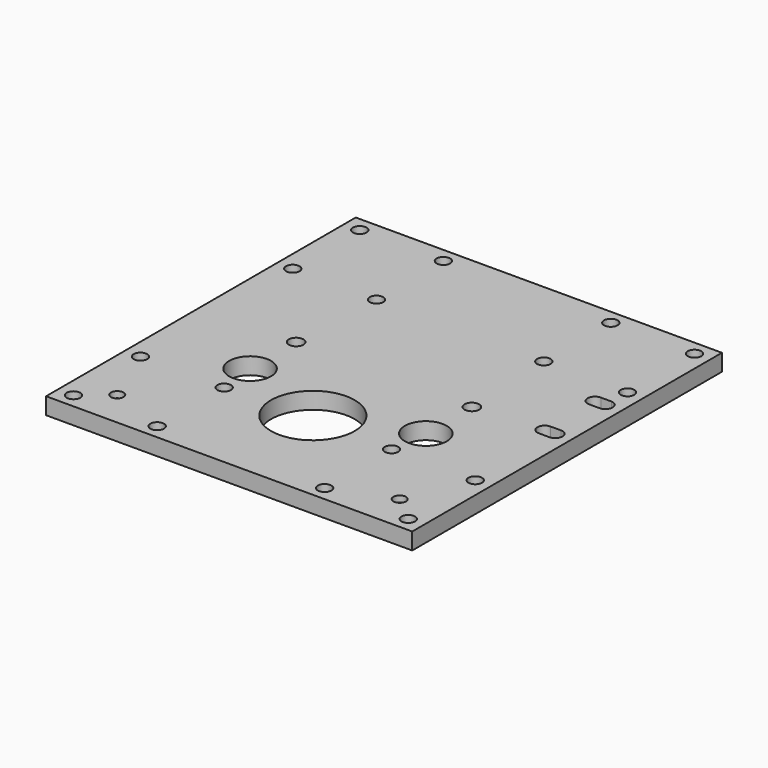
from build123d import *

# Parameters (mm, degrees)
F0_W           = 175
F0_H           = 185
F1_DEPTH       = 8
F2_R           = 3.25
F2_R_2         = 3.5
F2_R_3         = 10
F2_R_4         = 20
F3_DEPTH       = 25
F5_D           = 6
F5_DEPTH       = 15
F5_CBORE_D     = 10
F5_CBORE_DEPTH = 5


with BuildPart() as f1:
    # F0 (on Top) → F1 (new body)
    with BuildSketch(Plane.XY):
        Rectangle(F0_W, F0_H)
    extrude(amount=-F1_DEPTH)

    # F2 (on face) → F3 (cut)
    with BuildSketch(Plane.XY):
        with Locations((-80, 85.5)):
            Circle(F2_R)
        with Locations((-40, 85.5)):
            Circle(F2_R)
        with Locations((-40, 45.5)):
            Circle(F2_R)
        with Locations((-80, 45.5)):
            Circle(F2_R)
        with Locations((40, 85.5)):
            Circle(F2_R)
        with Locations((80, 85.5)):
            Circle(F2_R)
        with Locations((40, 45.5)):
            Circle(F2_R)
        with Locations((80, 45.5)):
            Circle(F2_R)
        with BuildLine():
            Line((77.31, 29), (79.81, 29))
            ThreePointArc((79.81, 29), (83.31, 32.5), (79.81, 36))
            Line((79.81, 36), (74.81, 36))
            ThreePointArc((74.81, 36), (71.31, 32.5), (74.81, 29))
            Line((74.81, 29), (77.31, 29))
        make_face()
        with BuildLine():
            ThreePointArc((79.81, -1), (83.31, 2.5), (79.81, 6))
            Line((79.81, 6), (74.81, 6))
            ThreePointArc((74.81, 6), (71.31, 2.5), (74.81, -1))
            Line((74.81, -1), (79.81, -1))
        make_face()
        with Locations((42, 0)):
            Circle(F2_R_2)
        with Locations((42, -27.5)):
            Circle(F2_R_3)
        with Locations((40, -45.5)):
            Circle(F2_R)
        with Locations((80, -85.5)):
            Circle(F2_R)
        with Locations((80, -45.5)):
            Circle(F2_R)
        with Locations((40, -85.5)):
            Circle(F2_R)
        with Locations((-40, -85.5)):
            Circle(F2_R)
        with Locations((-80, -85.5)):
            Circle(F2_R)
        with Locations((-80, -45.5)):
            Circle(F2_R)
        with Locations((-40, -45.5)):
            Circle(F2_R)
        with Locations((-42, -27.5)):
            Circle(F2_R_3)
        with Locations((-42, 0)):
            Circle(F2_R_2)
        with Locations((0, -42.5)):
            Circle(F2_R_4)
    extrude(amount=-F3_DEPTH, mode=Mode.SUBTRACT)

    # F5
    with Locations(Plane(origin=(0, 0, -8), x_dir=(1, 0, 0), z_dir=(0, 0, -1))):
        with Locations((-67.5, 75), (67.5, 75)):
            CounterBoreHole(F5_D / 2, F5_CBORE_D / 2, F5_CBORE_DEPTH, depth=F5_DEPTH)


solid = f1.part
